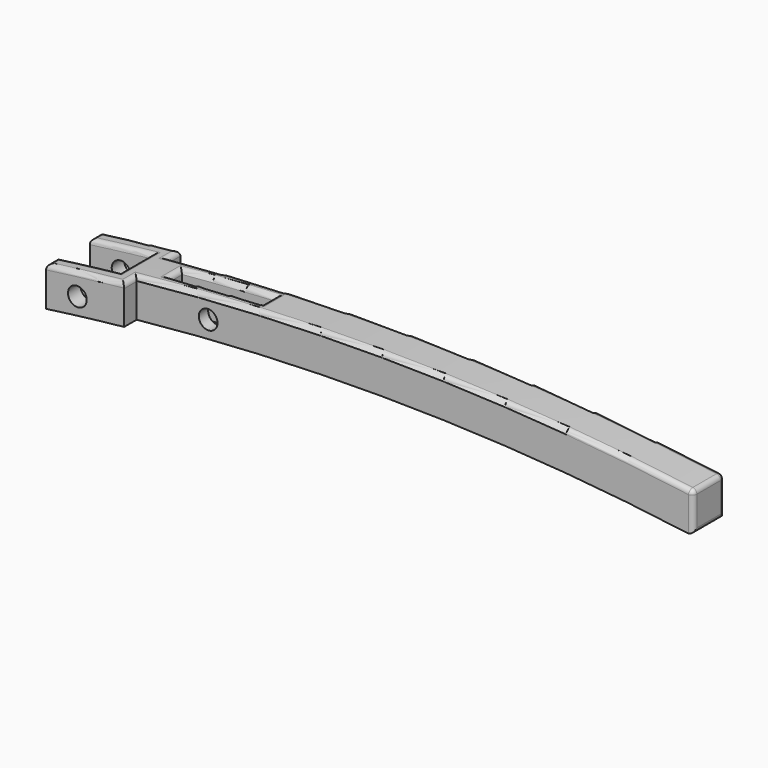
from build123d import *

# Parameters (mm, degrees)
SKETCH011_W          = 60
SKETCH011_H          = 10
PAD005_DEPTH         = 40
POCKET002_DEPTH      = 35.001
POCKET002_DEPTH_BACK = 10.001
FILLET002_R          = 3
SKETCH013_R          = 6
POCKET003_DEPTH      = 35.001
POCKET003_DEPTH_BACK = 10.001


with BuildPart() as part:
    # Sketch011 → Pad005 (new body)
    with BuildSketch(Plane.XY):
        Polygon((-214, -12.5), (-214, 12.5), (-254, 12.5), (-254, 22.5), (-204, 22.5), (-204, 12.5), (152.4, 12.5), (152.4, -12.5), (-204, -12.5), (-204, -22.5), (-254, -22.5), (-254, -12.5), align=None)
        with Locations((-159, 0)):
            Rectangle(SKETCH011_W, SKETCH011_H, mode=Mode.SUBTRACT)
    extrude(amount=PAD005_DEPTH)

    # Sketch012 (on Face10 of Pad005) → Pocket002 (cut, two sides)
    with BuildSketch(Plane.XZ.offset(12.5)) as pocket002_sk:
        with BuildLine():
            ThreePointArc((152.4, 0), (-50.8, 13.99639), (-254, 0))
            Line((-254, 0), (152.4, 0))
        make_face()
        with BuildLine():
            ThreePointArc((152.4, 25), (-50.8, 38.764187), (-254, 25))
            Line((-254, 25), (-254, 40))
            Line((-254, 40), (152.4, 40))
            Line((152.4, 40), (152.4, 25))
        make_face()
    extrude(amount=-POCKET002_DEPTH, mode=Mode.SUBTRACT)
    extrude(pocket002_sk.sketch, amount=POCKET002_DEPTH_BACK, mode=Mode.SUBTRACT)

    # Fillet002
    fillet002_edges = [part.edges().sort_by_distance(p)[0] for p in [
        (152.4, 0, 0),
        (152.4, -12.5, 12.5),
        (152.4, 0, 25),
        (152.4, 12.5, 12.5),
        (-25.623265, -12.5, 38.553836),
        (-204, -17.5, 30.955836),
        (-229.02488, -22.5, 28.186792),
        (-254, -17.5, 25),
        (-234.016382, -12.5, 27.583774),
        (-214, 0, 29.900087),
        (-234.016382, 12.5, 27.583774),
        (-254, 17.5, 25),
        (-229.02488, 22.5, 28.186792),
        (-204, 17.5, 30.955836),
        (-25.623265, 12.5, 38.553836),
        (-189, 0, 32.41311),
        (-159.021563, -5, 34.872806),
        (-129, 0, 36.733601),
        (-159.021563, 5, 34.872806),
    ]]
    fillet(fillet002_edges, radius=FILLET002_R)

    # Sketch013 (on Face11 of Fillet002) → Pocket003 (cut, two sides)
    with BuildSketch(Plane.XZ.offset(12.5)) as pocket003_sk:
        with Locations((-158.200104, 21.012099)):
            Circle(SKETCH013_R)
        with Locations((-233.96661, 13.463589)):
            Circle(SKETCH013_R)
    extrude(amount=-POCKET003_DEPTH, mode=Mode.SUBTRACT)
    extrude(pocket003_sk.sketch, amount=POCKET003_DEPTH_BACK, mode=Mode.SUBTRACT)


solid = part.part
